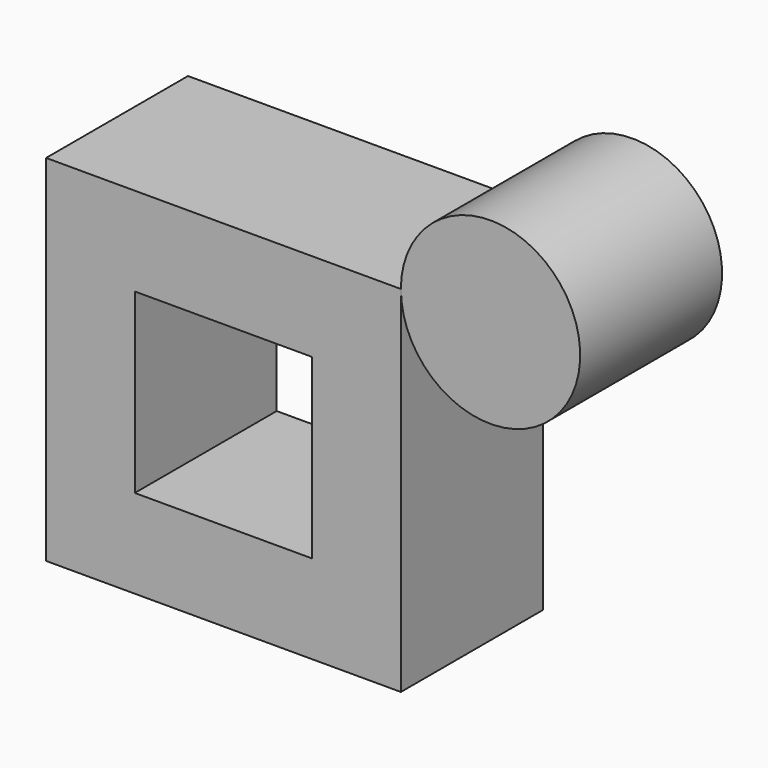
from build123d import *

# Parameters (mm, degrees)
F0_W     = 50.8
F0_H     = 50.8
F0_W_2   = 25.4
F0_H_2   = 25.4
F1_DEPTH = 25.4


with BuildPart() as f1:
    # F0 (on Front) → F1 (new body)
    with BuildSketch(Plane.XZ):
        with BuildLine():
            ThreePointArc((76.472228, 50.8), (63.636114, 63.636114), (50.8, 50.8))
            ThreePointArc((50.8, 50.8), (63.636114, 37.963886), (76.472228, 50.8))
        make_face()
        with Locations((25.4, 25.4)):
            Rectangle(F0_W, F0_H)
        with Locations((25.4, 25.4)):
            Rectangle(F0_W_2, F0_H_2, mode=Mode.SUBTRACT)
    extrude(amount=F1_DEPTH)


solid = f1.part
